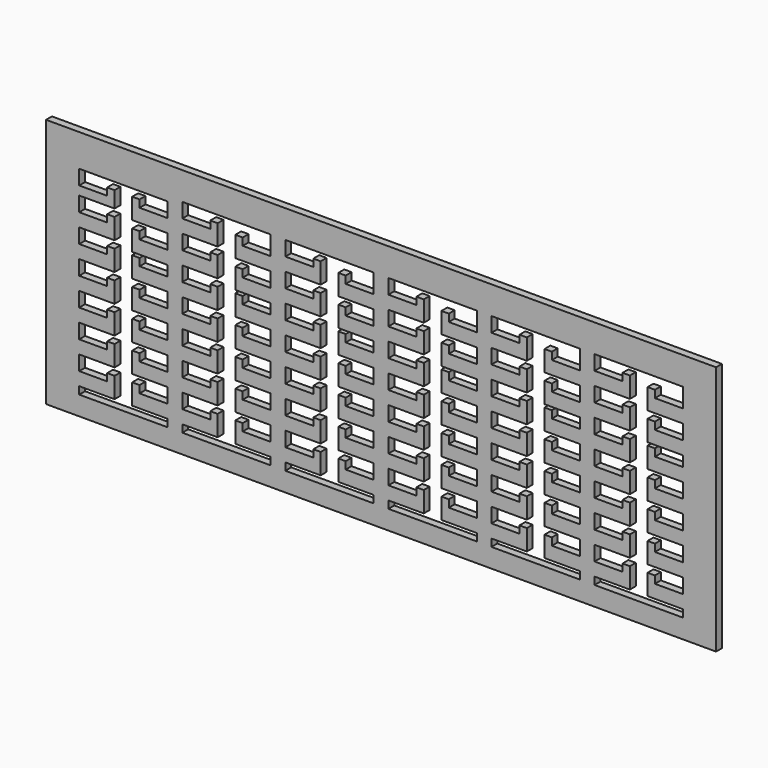
from build123d import *

# Parameters (mm, degrees)
F0_W     = 577.85
F0_H     = 215.9
F1_DEPTH = 6.35


with BuildPart() as f1:
    # F0 (on Front) → F1 (new body)
    with BuildSketch(Plane.XZ):
        with Locations((-282.109771, 15.203728)):
            Rectangle(F0_W, F0_H)
        Polygon((-542.459771, -58.392772), (-542.459771, -45.692772), (-511.979771, -45.692772), (-511.979771, -27.912772), (-518.329771, -27.912772), (-518.329771, -34.262772), (-542.459771, -34.262772), (-542.459771, -21.562772), (-511.979771, -21.562772), (-511.979771, -3.782772), (-518.329771, -3.782772), (-518.329771, -10.132772), (-542.459771, -10.132772), (-542.459771, 2.567228), (-511.979771, 2.567228), (-511.979771, 20.347228), (-518.329771, 20.347228), (-518.329771, 13.997228), (-542.459771, 13.997228), (-542.459771, 26.697228), (-511.979771, 26.697228), (-511.979771, 44.477228), (-518.329771, 44.477228), (-518.329771, 38.127228), (-542.459771, 38.127228), (-542.459771, 50.827228), (-511.979771, 50.827228), (-511.979771, 68.607228), (-518.329771, 68.607228), (-518.329771, 62.257228), (-542.459771, 62.257228), (-542.459771, 74.957228), (-511.979771, 74.957228), (-511.979771, 88.927217), (-518.329771, 88.927217), (-518.329771, 82.577217), (-542.459771, 82.577217), (-542.459771, 95.277217), (-466.259771, 95.277217), (-466.259771, 82.577217), (-490.389771, 82.577217), (-490.389771, 88.927217), (-496.739771, 88.927217), (-496.739771, 71.147217), (-466.259771, 71.147217), (-466.259771, 58.447217), (-490.389771, 58.447217), (-490.389771, 64.797217), (-496.739771, 64.797217), (-496.739771, 47.017217), (-466.259771, 47.017217), (-466.259771, 38.127228), (-490.389771, 38.127228), (-490.389771, 44.477228), (-496.739771, 44.477228), (-496.739771, 26.697228), (-466.259771, 26.697228), (-466.259771, 13.997228), (-490.389771, 13.997228), (-490.389771, 20.347228), (-496.739771, 20.347228), (-496.739771, 2.567228), (-466.259771, 2.567228), (-466.259771, -10.132772), (-490.389771, -10.132772), (-490.389771, -3.782772), (-496.739771, -3.782772), (-496.739771, -21.562772), (-466.259771, -21.562772), (-466.259771, -34.262772), (-490.389771, -34.262772), (-490.389771, -27.912772), (-496.739771, -27.912772), (-496.739771, -45.692772), (-466.259771, -45.692772), (-466.259771, -58.392772), (-490.389771, -58.392772), (-490.389771, -52.042772), (-496.739771, -52.042772), (-496.739771, -69.822772), (-466.259771, -69.822772), (-466.259771, -76.236272), (-542.459771, -76.236272), (-542.459771, -69.822772), (-511.979771, -69.822772), (-511.979771, -52.042772), (-518.329771, -52.042772), (-518.329771, -58.392772), align=None, mode=Mode.SUBTRACT)
        Polygon((-453.559771, -58.392772), (-453.559771, -45.692772), (-423.079771, -45.692772), (-423.079771, -27.912772), (-429.429771, -27.912772), (-429.429771, -34.262772), (-453.559771, -34.262772), (-453.559771, -21.562772), (-423.079771, -21.562772), (-423.079771, -3.782772), (-429.429771, -3.782772), (-429.429771, -10.132772), (-453.559771, -10.132772), (-453.559771, 2.567228), (-423.079771, 2.567228), (-423.079771, 20.347228), (-429.429771, 20.347228), (-429.429771, 13.997228), (-453.559771, 13.997228), (-453.559771, 26.697228), (-423.079771, 26.697228), (-423.079771, 44.477228), (-429.429771, 44.477228), (-429.429771, 38.127228), (-453.559771, 38.127228), (-453.559771, 50.827228), (-423.079771, 50.827228), (-423.079771, 68.607228), (-429.429771, 68.607228), (-429.429771, 62.257228), (-453.559771, 62.257228), (-453.559771, 74.957228), (-423.079771, 74.957228), (-423.079771, 92.737228), (-429.429771, 92.737228), (-429.429771, 86.387228), (-453.559771, 86.387228), (-453.559771, 99.087228), (-377.359771, 99.087228), (-377.359771, 82.577228), (-401.489771, 82.577228), (-401.489771, 88.927228), (-407.839771, 88.927228), (-407.839771, 71.147228), (-377.359771, 71.147228), (-377.359771, 58.447228), (-401.489771, 58.447228), (-401.489771, 64.797228), (-407.839771, 64.797228), (-407.839771, 47.017228), (-377.359771, 47.017228), (-377.359771, 38.127228), (-401.489771, 38.127228), (-401.489771, 44.477228), (-407.839771, 44.477228), (-407.839771, 26.697228), (-377.359771, 26.697228), (-377.359771, 13.997228), (-401.489771, 13.997228), (-401.489771, 20.347228), (-407.839771, 20.347228), (-407.839771, 2.567228), (-377.359771, 2.567228), (-377.359771, -10.132772), (-401.489771, -10.132772), (-401.489771, -3.782772), (-407.839771, -3.782772), (-407.839771, -21.562772), (-377.359771, -21.562772), (-377.359771, -34.262772), (-401.489771, -34.262772), (-401.489771, -27.912772), (-407.839771, -27.912772), (-407.839771, -45.692772), (-377.359771, -45.692772), (-377.359771, -58.392772), (-401.489771, -58.392772), (-401.489771, -52.042772), (-407.839771, -52.042772), (-407.839771, -69.822772), (-377.359771, -69.822772), (-377.359771, -76.236272), (-453.559771, -76.236272), (-453.559771, -69.822772), (-423.079771, -69.822772), (-423.079771, -52.042772), (-429.429771, -52.042772), (-429.429771, -58.392772), align=None, mode=Mode.SUBTRACT)
        Polygon((-364.659771, -58.392772), (-364.659771, -45.692772), (-334.179771, -45.692772), (-334.179771, -27.912772), (-340.529771, -27.912772), (-340.529771, -34.262772), (-364.659771, -34.262772), (-364.659771, -21.562772), (-334.179771, -21.562772), (-334.179771, -3.782772), (-340.529771, -3.782772), (-340.529771, -10.132772), (-364.659771, -10.132772), (-364.659771, 2.567228), (-334.179771, 2.567228), (-334.179771, 20.347228), (-340.529771, 20.347228), (-340.529771, 13.997228), (-364.659771, 13.997228), (-364.659771, 26.697228), (-334.179771, 26.697228), (-334.179771, 44.477228), (-340.529771, 44.477228), (-340.529771, 38.127228), (-364.659771, 38.127228), (-364.659771, 50.827228), (-334.179771, 50.827228), (-334.179771, 68.607228), (-340.529771, 68.607228), (-340.529771, 62.257228), (-364.659771, 62.257228), (-364.659771, 74.957228), (-334.179771, 74.957228), (-334.179771, 92.737228), (-340.529771, 92.737228), (-340.529771, 86.387228), (-364.659771, 86.387228), (-364.659771, 99.087228), (-288.459771, 99.087228), (-288.459771, 82.577228), (-312.589771, 82.577228), (-312.589771, 88.927228), (-318.939771, 88.927228), (-318.939771, 71.147228), (-288.459771, 71.147228), (-288.459771, 58.447228), (-312.589771, 58.447228), (-312.589771, 64.797228), (-318.939771, 64.797228), (-318.939771, 47.017228), (-288.459771, 47.017228), (-288.459771, 38.127228), (-312.589771, 38.127228), (-312.589771, 44.477228), (-318.939771, 44.477228), (-318.939771, 26.697228), (-288.459771, 26.697228), (-288.459771, 13.997228), (-312.589771, 13.997228), (-312.589771, 20.347228), (-318.939771, 20.347228), (-318.939771, 2.567228), (-288.459771, 2.567228), (-288.459771, -10.132772), (-312.589771, -10.132772), (-312.589771, -3.782772), (-318.939771, -3.782772), (-318.939771, -21.562772), (-288.459771, -21.562772), (-288.459771, -34.262772), (-312.589771, -34.262772), (-312.589771, -27.912772), (-318.939771, -27.912772), (-318.939771, -45.692772), (-288.459771, -45.692772), (-288.459771, -58.392772), (-312.589771, -58.392772), (-312.589771, -52.042772), (-318.939771, -52.042772), (-318.939771, -69.822772), (-288.459771, -69.822772), (-288.459771, -76.236272), (-364.659771, -76.236272), (-364.659771, -69.822772), (-334.179771, -69.822772), (-334.179771, -52.042772), (-340.529771, -52.042772), (-340.529771, -58.392772), align=None, mode=Mode.SUBTRACT)
        Polygon((-275.759771, -58.392772), (-275.759771, -45.692772), (-245.279771, -45.692772), (-245.279771, -27.912772), (-251.629771, -27.912772), (-251.629771, -34.262772), (-275.759771, -34.262772), (-275.759771, -21.562772), (-245.279771, -21.562772), (-245.279771, -3.782772), (-251.629771, -3.782772), (-251.629771, -10.132772), (-275.759771, -10.132772), (-275.759771, 2.567228), (-245.279771, 2.567228), (-245.279771, 20.347228), (-251.629771, 20.347228), (-251.629771, 13.997228), (-275.759771, 13.997228), (-275.759771, 26.697228), (-245.279771, 26.697228), (-245.279771, 44.477228), (-251.629771, 44.477228), (-251.629771, 38.127228), (-275.759771, 38.127228), (-275.759771, 50.827228), (-245.279771, 50.827228), (-245.279771, 68.607228), (-251.629771, 68.607228), (-251.629771, 62.257228), (-275.759771, 62.257228), (-275.759771, 74.957228), (-245.279771, 74.957228), (-245.279771, 92.737228), (-251.629771, 92.737228), (-251.629771, 86.387228), (-275.759771, 86.387228), (-275.759771, 99.087228), (-199.559771, 99.087228), (-199.559771, 82.577228), (-223.689771, 82.577228), (-223.689771, 88.927228), (-230.039771, 88.927228), (-230.039771, 71.147228), (-199.559771, 71.147228), (-199.559771, 58.447228), (-223.689771, 58.447228), (-223.689771, 64.797228), (-230.039771, 64.797228), (-230.039771, 47.017228), (-199.559771, 47.017228), (-199.559771, 38.127228), (-223.689771, 38.127228), (-223.689771, 44.477228), (-230.039771, 44.477228), (-230.039771, 26.697228), (-199.559771, 26.697228), (-199.559771, 13.997228), (-223.689771, 13.997228), (-223.689771, 20.347228), (-230.039771, 20.347228), (-230.039771, 2.567228), (-199.559771, 2.567228), (-199.559771, -10.132772), (-223.689771, -10.132772), (-223.689771, -3.782772), (-230.039771, -3.782772), (-230.039771, -21.562772), (-199.559771, -21.562772), (-199.559771, -34.262772), (-223.689771, -34.262772), (-223.689771, -27.912772), (-230.039771, -27.912772), (-230.039771, -45.692772), (-199.559771, -45.692772), (-199.559771, -58.392772), (-223.689771, -58.392772), (-223.689771, -52.042772), (-230.039771, -52.042772), (-230.039771, -69.822772), (-199.559771, -69.822772), (-199.559771, -76.236272), (-275.759771, -76.236272), (-275.759771, -69.822772), (-245.279771, -69.822772), (-245.279771, -52.042772), (-251.629771, -52.042772), (-251.629771, -58.392772), align=None, mode=Mode.SUBTRACT)
        Polygon((-186.859771, -58.392772), (-186.859771, -45.692772), (-156.379771, -45.692772), (-156.379771, -27.912772), (-162.729771, -27.912772), (-162.729771, -34.262772), (-186.859771, -34.262772), (-186.859771, -21.562772), (-156.379771, -21.562772), (-156.379771, -3.782772), (-162.729771, -3.782772), (-162.729771, -10.132772), (-186.859771, -10.132772), (-186.859771, 2.567228), (-156.379771, 2.567228), (-156.379771, 20.347228), (-162.729771, 20.347228), (-162.729771, 13.997228), (-186.859771, 13.997228), (-186.859771, 26.697228), (-156.379771, 26.697228), (-156.379771, 44.477228), (-162.729771, 44.477228), (-162.729771, 38.127228), (-186.859771, 38.127228), (-186.859771, 50.827228), (-156.379771, 50.827228), (-156.379771, 68.607228), (-162.729771, 68.607228), (-162.729771, 62.257228), (-186.859771, 62.257228), (-186.859771, 74.957228), (-156.379771, 74.957228), (-156.379771, 92.737228), (-162.729771, 92.737228), (-162.729771, 86.387228), (-186.859771, 86.387228), (-186.859771, 99.087228), (-110.659771, 99.087228), (-110.659771, 82.577228), (-134.789771, 82.577228), (-134.789771, 88.927228), (-141.139771, 88.927228), (-141.139771, 71.147228), (-110.659771, 71.147228), (-110.659771, 58.447228), (-134.789771, 58.447228), (-134.789771, 64.797228), (-141.139771, 64.797228), (-141.139771, 47.017228), (-110.659771, 47.017228), (-110.659771, 38.127228), (-134.789771, 38.127228), (-134.789771, 44.477228), (-141.139771, 44.477228), (-141.139771, 26.697228), (-110.659771, 26.697228), (-110.659771, 13.997228), (-134.789771, 13.997228), (-134.789771, 20.347228), (-141.139771, 20.347228), (-141.139771, 2.567228), (-110.659771, 2.567228), (-110.659771, -10.132772), (-134.789771, -10.132772), (-134.789771, -3.782772), (-141.139771, -3.782772), (-141.139771, -21.562772), (-110.659771, -21.562772), (-110.659771, -34.262772), (-134.789771, -34.262772), (-134.789771, -27.912772), (-141.139771, -27.912772), (-141.139771, -45.692772), (-110.659771, -45.692772), (-110.659771, -58.392772), (-134.789771, -58.392772), (-134.789771, -52.042772), (-141.139771, -52.042772), (-141.139771, -69.822772), (-110.659771, -69.822772), (-110.659771, -76.236272), (-186.859771, -76.236272), (-186.859771, -69.822772), (-156.379771, -69.822772), (-156.379771, -52.042772), (-162.729771, -52.042772), (-162.729771, -58.392772), align=None, mode=Mode.SUBTRACT)
        Polygon((-97.959771, -58.392772), (-97.959771, -45.692772), (-67.479771, -45.692772), (-67.479771, -27.912772), (-73.829771, -27.912772), (-73.829771, -34.262772), (-97.959771, -34.262772), (-97.959771, -21.562772), (-67.479771, -21.562772), (-67.479771, -3.782772), (-73.829771, -3.782772), (-73.829771, -10.132772), (-97.959771, -10.132772), (-97.959771, 2.567228), (-67.479771, 2.567228), (-67.479771, 20.347228), (-73.829771, 20.347228), (-73.829771, 13.997228), (-97.959771, 13.997228), (-97.959771, 26.697228), (-67.479771, 26.697228), (-67.479771, 44.477228), (-73.829771, 44.477228), (-73.829771, 38.127228), (-97.959771, 38.127228), (-97.959771, 50.827228), (-67.479771, 50.827228), (-67.479771, 68.607228), (-73.829771, 68.607228), (-73.829771, 62.257228), (-97.959771, 62.257228), (-97.959771, 74.957228), (-67.479771, 74.957228), (-67.479771, 92.737228), (-73.829771, 92.737228), (-73.829771, 86.387228), (-97.959771, 86.387228), (-97.959771, 99.087228), (-21.759771, 99.087228), (-21.759771, 82.577228), (-45.889771, 82.577228), (-45.889771, 88.927228), (-52.239771, 88.927228), (-52.239771, 71.147228), (-21.759771, 71.147228), (-21.759771, 58.447228), (-45.889771, 58.447228), (-45.889771, 64.797228), (-52.239771, 64.797228), (-52.239771, 47.017228), (-21.759771, 47.017228), (-21.759771, 38.127228), (-45.889771, 38.127228), (-45.889771, 44.477228), (-52.239771, 44.477228), (-52.239771, 26.697228), (-21.759771, 26.697228), (-21.759771, 13.997228), (-45.889771, 13.997228), (-45.889771, 20.347228), (-52.239771, 20.347228), (-52.239771, 2.567228), (-21.759771, 2.567228), (-21.759771, -10.132772), (-45.889771, -10.132772), (-45.889771, -3.782772), (-52.239771, -3.782772), (-52.239771, -21.562772), (-21.759771, -21.562772), (-21.759771, -34.262772), (-45.889771, -34.262772), (-45.889771, -27.912772), (-52.239771, -27.912772), (-52.239771, -45.692772), (-21.759771, -45.692772), (-21.759771, -58.392772), (-45.889771, -58.392772), (-45.889771, -52.042772), (-52.239771, -52.042772), (-52.239771, -69.822772), (-21.759771, -69.822772), (-21.759771, -76.236272), (-97.959771, -76.236272), (-97.959771, -69.822772), (-67.479771, -69.822772), (-67.479771, -52.042772), (-73.829771, -52.042772), (-73.829771, -58.392772), align=None, mode=Mode.SUBTRACT)
    extrude(amount=F1_DEPTH)


solid = f1.part
